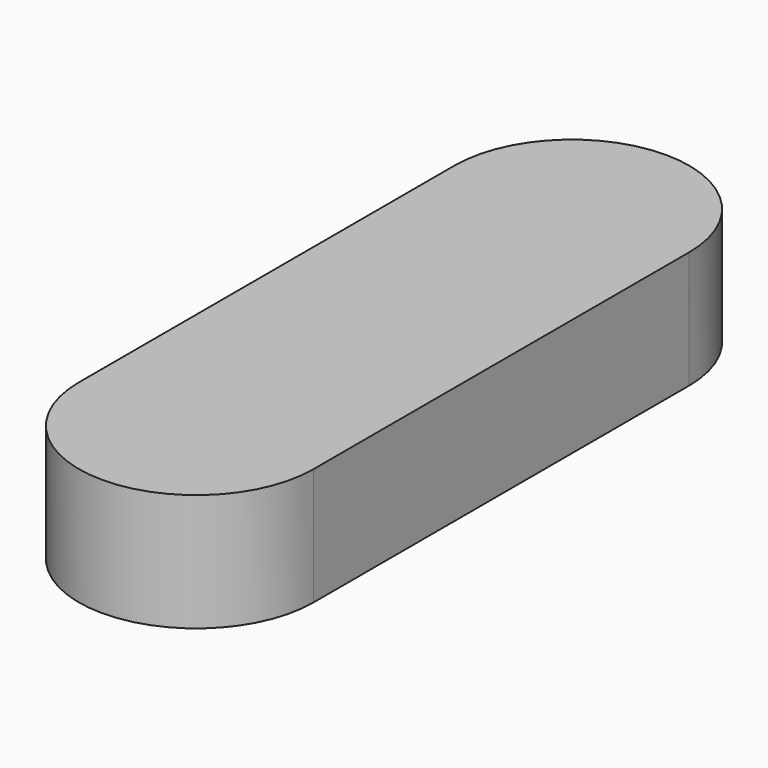
from build123d import *

# Parameters (mm, degrees)
F1_DEPTH = 500


with BuildPart() as f1:
    # F0 (on Top) → F1 (new body)
    with BuildSketch(Plane.XY):
        with BuildLine():
            ThreePointArc((500, 1000), (0, 1500), (-500, 1000))
            Line((-500, 1000), (500, 1000))
        make_face()
        with BuildLine():
            ThreePointArc((500, 1000), (0, 500), (-500, 1000))
            Line((-500, 1000), (-500, -1000))
            ThreePointArc((-500, -1000), (0, -500), (500, -1000))
            Line((500, -1000), (500, 1000))
        make_face()
        with BuildLine():
            Line((500, 1000), (-500, 1000))
            ThreePointArc((-500, 1000), (0, 500), (500, 1000))
        make_face()
        with BuildLine():
            ThreePointArc((500, -1000), (0, -500), (-500, -1000))
            Line((-500, -1000), (500, -1000))
        make_face()
        with BuildLine():
            Line((500, -1000), (-500, -1000))
            ThreePointArc((-500, -1000), (0, -1500), (500, -1000))
        make_face()
    extrude(amount=F1_DEPTH)


solid = f1.part
